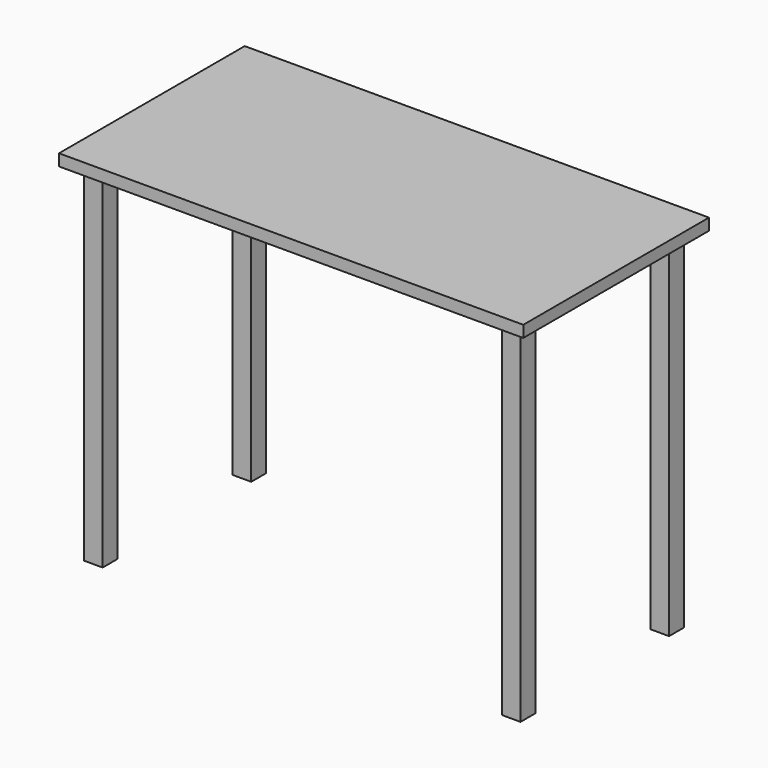
from build123d import *

# Parameters (mm, degrees)
F0_W     = 1000
F0_H     = 500
F1_DEPTH = 25
F2_W     = 40
F2_H     = 40
F3_DEPTH = 750


with BuildPart() as f1:
    # F0 (on Top) → F1 (new body)
    with BuildSketch(Plane.XY):
        with Locations((500, 250)):
            Rectangle(F0_W, F0_H)
    extrude(amount=F1_DEPTH)

    # F2 (on face) → F3 (join)
    with BuildSketch(Plane(origin=(0, 0, 0), x_dir=(1, 0, 0), z_dir=(0, 0, -1))):
        with Locations((50, -50)):
            Rectangle(F2_W, F2_H)
        with Locations((50, -450)):
            Rectangle(F2_W, F2_H)
        with Locations((950, -50)):
            Rectangle(F2_W, F2_H)
        with Locations((950, -450)):
            Rectangle(F2_W, F2_H)
    extrude(amount=F3_DEPTH)


solid = f1.part
